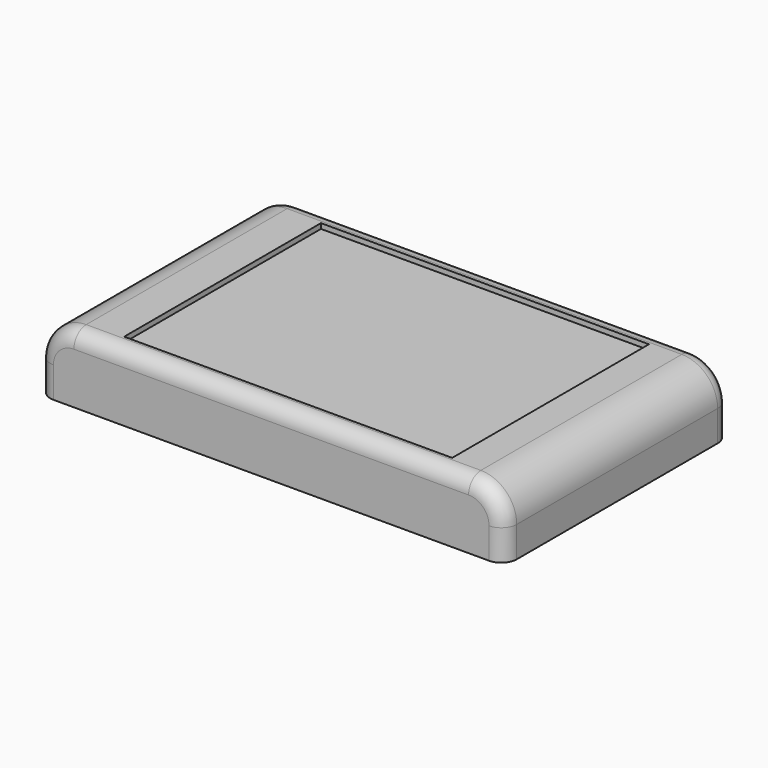
from build123d import *

# Parameters (mm, degrees)
SKETCH_W        = 70
SKETCH_H        = 50
PAD_DEPTH       = 4.5
SKETCH001_W     = 86
SKETCH001_H     = 50
PAD001_DEPTH    = 6
SKETCH002_W     = 91
SKETCH002_H     = 55
SKETCH002_W_2   = 87
SKETCH002_H_2   = 51
PAD002_DEPTH    = 8
SKETCH003_W     = 91
SKETCH003_H     = 55
SKETCH003_W_2   = 71
SKETCH003_H_2   = 51
PAD003_DEPTH    = 4
SKETCH004_W     = 91
SKETCH004_H     = 55
SKETCH004_W_2   = 64
SKETCH004_H_2   = 48
PAD004_DEPTH    = 1
FILLET_R        = 7
FILLET001_R     = 3
BOX_W           = 11
BOX_H           = 6.5
BOX_DEPTH       = 7
SKETCH005_W     = 51
SKETCH005_H     = 7
POCKET_DEPTH    = 1
PAD005_DEPTH    = 2
PAD006_DEPTH    = 1
SKETCH008_R     = 1.5
POCKET001_DEPTH = 5


with BuildPart() as display:
    # Sketch → Pad (new body)
    with BuildSketch(Plane.XY):
        Rectangle(SKETCH_W, SKETCH_H)
    extrude(amount=PAD_DEPTH)

    # Sketch001 (on Face5 of Pad) → Pad001 (join)
    with BuildSketch(Plane(origin=(0, 0, 0), x_dir=(1, 0, 0), z_dir=(0, 0, -1))):
        Rectangle(SKETCH001_W, SKETCH001_H)
    extrude(amount=PAD001_DEPTH)


with BuildPart() as cover_frame:
    # Sketch002 → Pad002 (new body)
    with BuildSketch(Plane.XY):
        Rectangle(SKETCH002_W, SKETCH002_H)
        Rectangle(SKETCH002_W_2, SKETCH002_H_2, mode=Mode.SUBTRACT)
    extrude(amount=PAD002_DEPTH)

    # Sketch003 (on Face10 of Pad002) → Pad003 (join)
    with BuildSketch(Plane.XY.offset(8)):
        Rectangle(SKETCH003_W, SKETCH003_H)
        Rectangle(SKETCH003_W_2, SKETCH003_H_2, mode=Mode.SUBTRACT)
    extrude(amount=PAD003_DEPTH)

    # Sketch004 (on Face7 of Pad003) → Pad004 (join)
    with BuildSketch(Plane.XY.offset(12)):
        Rectangle(SKETCH004_W, SKETCH004_H)
        with Locations((0.5, 0)):
            Rectangle(SKETCH004_W_2, SKETCH004_H_2, mode=Mode.SUBTRACT)
    extrude(amount=PAD004_DEPTH)

    # Fillet
    fillet_edges = [cover_frame.edges().sort_by_distance(p)[0] for p in [
        (-45.5, 0, 13),
        (45.5, 0, 13),
    ]]
    fillet(fillet_edges, radius=FILLET_R)

    # Fillet001
    fillet001_edges = [cover_frame.edges().sort_by_distance(p)[0] for p in [
        (-43.449747, -27.5, 10.949747),
        (-43.449747, 27.5, 10.949747),
    ]]
    fillet(fillet001_edges, radius=FILLET001_R)

    # Box → Box (cut)
    with BuildSketch(Plane(origin=(-46, -4, 0), x_dir=(0, 1, 0), z_dir=(1, 0, 0))):
        with Locations((5.5, 3.25)):
            Rectangle(BOX_W, BOX_H)
    extrude(amount=BOX_DEPTH, mode=Mode.SUBTRACT)

    # Sketch005 (on Face35 of Box) → Pocket (cut)
    with BuildSketch(Plane(origin=(-46, -4, 8), x_dir=(0, 1, 0), z_dir=(0, 0, -1))):
        with Locations((4, 85)):
            Rectangle(SKETCH005_W, SKETCH005_H)
    extrude(amount=-POCKET_DEPTH, mode=Mode.SUBTRACT)


with BuildPart() as cover_frame_1:
    # Body001 placement: moved
    add(cover_frame.part.moved(Location((0, 0, -7))))


with BuildPart() as base_frame:
    # Sketch006 → Pad005 (new body)
    with BuildSketch(Plane.XY):
        Polygon((-43.25, -3.75), (-43.25, -25.25), (-17.75, -25.25), (-17.75, -20.25), (-11.75, -20.25), (-11.75, -25.25), (27.25, -25.25), (27.25, -15.25), (35.75, -15.25), (35.75, -25.25), (43.25, -25.25), (43.25, 25.25), (-43.25, 25.25), (-43.25, 6.75), (-45.5, 6.75), (-45.5, -3.75), align=None)
    extrude(amount=PAD005_DEPTH)

    # Sketch007 (on Face18 of Pad005) → Pad006 (join)
    with BuildSketch(Plane.XY.offset(2)):
        Polygon((43.25, -25.25), (43.25, -10.25), (16.25, -10.25), (16.25, 10.75), (43.25, 10.75), (43.25, 17.75), (6.25, 17.75), (6.25, 25.25), (-43.25, 25.25), (-43.25, 6.75), (-35.25, 6.75), (-35.25, -16.25), (-43.25, -16.25), (-43.25, -25.25), (-17.75, -25.25), (-17.75, -20.25), (-11.75, -20.25), (-11.75, -25.25), (27.25, -25.25), (27.25, -15.25), (35.75, -15.25), (35.75, -25.25), align=None)
    extrude(amount=PAD006_DEPTH)

    # Sketch008 (on Face7 of Pad006) → Pocket001 (cut)
    with BuildSketch(Plane(origin=(0, 0, 0), x_dir=(1, 0, 0), z_dir=(0, 0, -1))):
        with Locations((-14, 10)):
            Circle(SKETCH008_R)
        with Locations((7, 10)):
            Circle(SKETCH008_R)
        with Locations((-14, -10)):
            Circle(SKETCH008_R)
        with Locations((7, -10)):
            Circle(SKETCH008_R)
    extrude(amount=-POCKET001_DEPTH, mode=Mode.SUBTRACT)


solid = Compound([display.part, cover_frame_1.part, base_frame.part])
